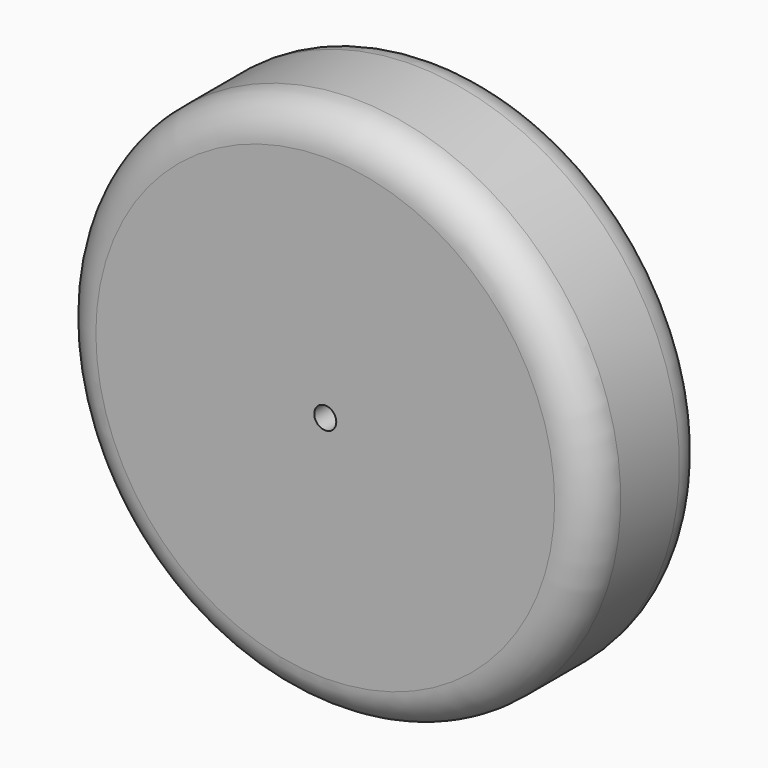
from build123d import *

# Parameters (mm, degrees)
F2_R     = 5
F3_R     = 1.5
F4_DEPTH = 70.5


with BuildPart() as f1:
    # F0 (on Top) → F1 (revolve)
    with BuildSketch(Plane.XY):
        Polygon((0, -40), (0, 0), (-15, 0), (-15, -20), (-36.239058, -20), (-36.239058, -40), align=None)
    revolve(axis=Axis((0, -11.717667, 0), (0, -1, 0)))

    # F2
    f2_edges = [f1.edges().sort_by_distance(p)[0] for p in [
        (15, 0, 0),
        (36.239058, -20, 0),
        (36.239058, -40, 0),
    ]]
    fillet(f2_edges, radius=F2_R)

    # F3 (on face) → F4 (cut)
    with BuildSketch(Plane.XZ.offset(40)):
        Circle(F3_R)
    extrude(amount=-F4_DEPTH, mode=Mode.SUBTRACT)


solid = f1.part
